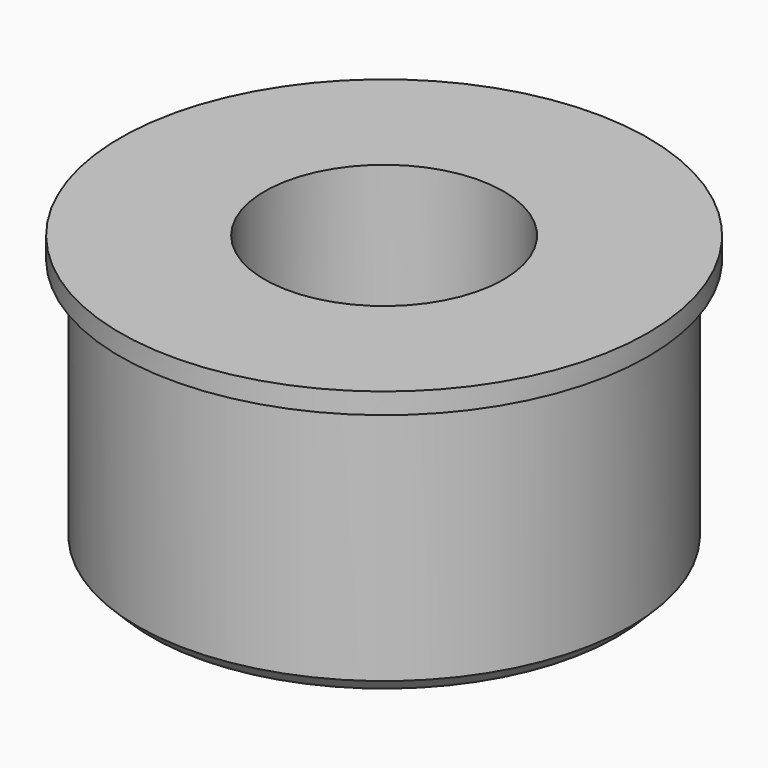
from build123d import *

# Parameters (mm, degrees)
F0_R     = 17.75
F0_R_2   = 8.6
F1_DEPTH = 20
F2_R     = 19
F2_R_2   = 17.75
F3_DEPTH = 1.5
F4_SIZE  = 1
F5_SIZE  = 1


with BuildPart() as f1:
    # F0 (on Top) → F1 (new body)
    with BuildSketch(Plane.XY):
        Circle(F0_R)
        Circle(F0_R_2, mode=Mode.SUBTRACT)
    extrude(amount=F1_DEPTH)

    # F2 (on face) → F3 (join)
    with BuildSketch(Plane.XY.offset(20)):
        Circle(F2_R)
        Circle(F2_R_2, mode=Mode.SUBTRACT)
    extrude(amount=-F3_DEPTH)

    # F4
    f4_edges = [f1.edges().sort_by_distance(p)[0] for p in [
        (-17.75, 0, 0),
    ]]
    chamfer(f4_edges, length=F4_SIZE)

    # F5
    f5_edges = [f1.edges().sort_by_distance(p)[0] for p in [
        (-8.6, 0, 0),
    ]]
    chamfer(f5_edges, length=F5_SIZE)


solid = f1.part
